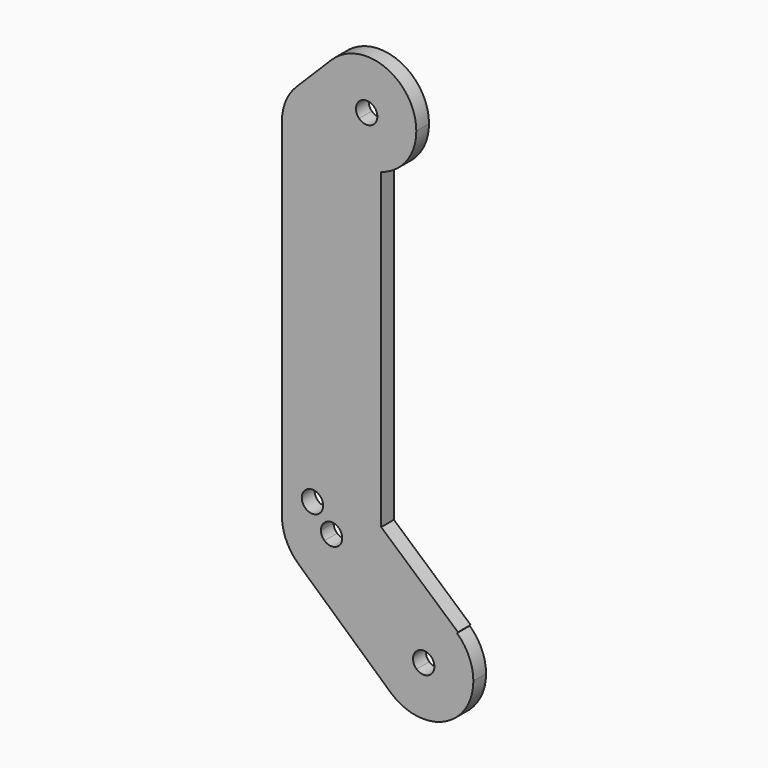
from build123d import *

# Parameters (mm, degrees)
F1_DEPTH = 3.2
F2_R     = 2.15
F3_DEPTH = 12.5


with BuildPart() as f1:
    # F0 (on Front) → F1 (new body)
    with BuildSketch(Plane.XZ):
        with BuildLine():
            Line((-18.5654132097, 100.885057482), (-25.6364810216, 93.8139896702))
            ThreePointArc((-25.6364810216, 93.8139896702), (-23.5654132097, 95.4031758961), (-21.1536036607, 96.4021801212))
            ThreePointArc((-21.1536036607, 96.4021801212), (-20.1545994357, 98.8139896702), (-18.5654132097, 100.885057482))
        make_face()
        with BuildLine():
            ThreePointArc((-6.6971687433, -7.4261652839), (-9.9867052636, -0.5154783973), (-7.4261652839, 6.6971687433))
            Line((-7.4261652839, 6.6971687433), (-11.1392479258, 10.045753115))
            ThreePointArc((-11.1392479258, 10.045753115), (-18.0499348124, 6.7562165947), (-25.262581953, 9.3167565744))
            Line((-25.262581953, 9.3167565744), (-6.6971687433, -7.4261652839))
        make_face()
        with BuildLine():
            Line((-28.5654132097, 86.7429218583), (-28.5654132097, 16.7429218583))
            ThreePointArc((-28.5654132097, 16.7429218583), (-25.6364810216, 23.8139896702), (-18.5654132097, 26.7429218583))
            Line((-18.5654132097, 26.7429218583), (-18.5654132097, 76.7429218583))
            ThreePointArc((-18.5654132097, 76.7429218583), (-25.6364810216, 79.6718540464), (-28.5654132097, 86.7429218583))
        make_face()
        with BuildLine():
            Line((-18.5654132097, 86.7429218583), (-28.5654132097, 86.7429218583))
            ThreePointArc((-28.5654132097, 86.7429218583), (-25.6364810216, 79.6718540464), (-18.5654132097, 76.7429218583))
            Line((-18.5654132097, 76.7429218583), (-18.5654132097, 86.7429218583))
        make_face()
        with BuildLine():
            ThreePointArc((-25.6364810216, 93.8139896702), (-27.8042085348, 90.5697561819), (-28.5654132097, 86.7429218583))
            Line((-28.5654132097, 86.7429218583), (-18.5654132097, 86.7429218583))
            ThreePointArc((-18.5654132097, 86.7429218583), (-21.1536036607, 91.2257992191), (-21.1536036607, 96.4021801212))
            ThreePointArc((-21.1536036607, 96.4021801212), (-23.5654132097, 95.4031758961), (-25.6364810216, 93.8139896702))
        make_face()
        with BuildLine():
            ThreePointArc((-8.9061549468, 84.1547314073), (-8.7353506369, 84.2021247154), (-8.5654132097, 84.2525380943))
            Line((-8.5654132097, 84.2525380943), (-8.5654132097, 86.7429218583))
            ThreePointArc((-8.5654132097, 86.7429218583), (-8.650964596, 85.4376599361), (-8.9061549468, 84.1547314073))
        make_face()
        with BuildLine():
            ThreePointArc((-11.8682444664, 24.1690871422), (-9.4283543987, 20.8066832051), (-8.5654132097, 16.7429218583))
            Line((-8.5654132097, 16.7429218583), (-8.5654132097, 21.2613671129))
            Line((-8.5654132097, 21.2613671129), (-11.8682444664, 24.1690871422))
        make_face()
        with BuildLine():
            ThreePointArc((-28.5654132097, 16.7429218583), (-27.7024720208, 12.6791605115), (-25.262581953, 9.3167565744))
            Line((-25.262581953, 9.3167565744), (-20.0053044895, 15.1462963223))
            ThreePointArc((-20.0053044895, 15.1462963223), (-20.5298808541, 15.8692131687), (-20.7154132097, 16.7429218583))
            Line((-20.7154132097, 16.7429218583), (-28.5654132097, 16.7429218583))
        make_face()
        with BuildLine():
            Line((6.6971687433, 7.4261652839), (1.4398912798, 1.596625536))
            ThreePointArc((1.4398912798, 1.596625536), (1.9644676444, 0.8737086896), (2.15, 0))
            ThreePointArc((2.15, 0), (0.8737086896, -1.9644676444), (-1.4398912798, -1.596625536))
            Line((-1.4398912798, -1.596625536), (-6.6971687433, -7.4261652839))
            ThreePointArc((-6.6971687433, -7.4261652839), (4.0637613468, -9.1370588111), (10, 0))
            ThreePointArc((10, 0), (9.1370588111, 4.0637613468), (6.6971687433, 7.4261652839))
        make_face()
        with BuildLine():
            Line((-7.4261652839, 6.6971687433), (-1.596625536, 1.4398912798))
            ThreePointArc((-1.596625536, 1.4398912798), (-0.1108278554, 2.1471416317), (1.4398912798, 1.596625536))
            Line((1.4398912798, 1.596625536), (6.6971687433, 7.4261652839))
            ThreePointArc((6.6971687433, 7.4261652839), (-0.5154783973, 9.9867052636), (-7.4261652839, 6.6971687433))
        make_face()
        with BuildLine():
            ThreePointArc((-1.4398912798, -1.596625536), (-2.1471416317, -0.1108278554), (-1.596625536, 1.4398912798))
            Line((-1.596625536, 1.4398912798), (-7.4261652839, 6.6971687433))
            ThreePointArc((-7.4261652839, 6.6971687433), (-9.9867052636, -0.5154783973), (-6.6971687433, -7.4261652839))
            Line((-6.6971687433, -7.4261652839), (-1.4398912798, -1.596625536))
        make_face()
        with BuildLine():
            Line((-11.1392479258, 10.045753115), (-7.4261652839, 6.6971687433))
            ThreePointArc((-7.4261652839, 6.6971687433), (-0.5154783973, 9.9867052636), (6.6971687433, 7.4261652839))
            Line((6.6971687433, 7.4261652839), (6.8974743638, 7.6482744619))
            Line((6.8974743638, 7.6482744619), (-8.5654132097, 21.2613671129))
            Line((-8.5654132097, 21.2613671129), (-8.5654132097, 16.7429218583))
            ThreePointArc((-8.5654132097, 16.7429218583), (-9.2310237589, 13.1555588183), (-11.1392479258, 10.045753115))
        make_face()
        with BuildLine():
            ThreePointArc((-25.262581953, 9.3167565744), (-18.0499348124, 6.7562165947), (-11.1392479258, 10.045753115))
            Line((-11.1392479258, 10.045753115), (-16.9687876737, 15.3030305785))
            ThreePointArc((-16.9687876737, 15.3030305785), (-18.4545853543, 14.5957802266), (-20.0053044895, 15.1462963223))
            Line((-20.0053044895, 15.1462963223), (-25.262581953, 9.3167565744))
        make_face()
        with BuildLine():
            ThreePointArc((-18.5654132097, 26.7429218583), (-25.6364810216, 23.8139896702), (-28.5654132097, 16.7429218583))
            Line((-28.5654132097, 16.7429218583), (-20.7154132097, 16.7429218583))
            ThreePointArc((-20.7154132097, 16.7429218583), (-20.0856927893, 18.2632014378), (-18.5654132097, 18.8929218583))
            Line((-18.5654132097, 18.8929218583), (-18.5654132097, 26.7429218583))
        make_face()
        with BuildLine():
            Line((-8.5654132097, 86.7429218583), (-8.5654132097, 84.2525380943))
            ThreePointArc((-8.5654132097, 84.2525380943), (-3.4541550431, 87.8679540951), (-1.4943453978, 93.8139896702))
            ThreePointArc((-1.4943453978, 93.8139896702), (-7.6675110742, 103.0527849953), (-18.5654132097, 100.885057482))
            ThreePointArc((-18.5654132097, 100.885057482), (-20.1545994357, 98.8139896702), (-21.1536036607, 96.4021801212))
            ThreePointArc((-21.1536036607, 96.4021801212), (-17.030591367, 96.624436009), (-13.1692451405, 95.1620293032))
            ThreePointArc((-13.1692451405, 95.1620293032), (-10.7796896928, 95.8417389701), (-9.3443453978, 93.8139896702))
            ThreePointArc((-9.3443453978, 93.8139896702), (-9.5551722221, 92.8854922849), (-10.1463057648, 92.1390899275))
            ThreePointArc((-10.1463057648, 92.1390899275), (-8.9687712332, 89.5544095029), (-8.5654132097, 86.7429218583))
        make_face()
        with BuildLine():
            Line((-11.8682444664, 24.1690871422), (-8.5654132097, 21.2613671129))
            Line((-8.5654132097, 21.2613671129), (-8.5654132097, 84.2525380943))
            ThreePointArc((-8.5654132097, 84.2525380943), (-8.7353506369, 84.2021247154), (-8.9061549468, 84.1547314073))
            ThreePointArc((-8.9061549468, 84.1547314073), (-12.4777989196, 78.8093884554), (-18.5654132097, 76.7429218583))
            Line((-18.5654132097, 76.7429218583), (-18.5654132097, 26.7429218583))
            ThreePointArc((-18.5654132097, 26.7429218583), (-14.9780501697, 26.0773113091), (-11.8682444664, 24.1690871422))
        make_face()
        with BuildLine():
            Line((-17.1255219299, 18.3395473943), (-11.8682444664, 24.1690871422))
            ThreePointArc((-11.8682444664, 24.1690871422), (-14.9780501697, 26.0773113091), (-18.5654132097, 26.7429218583))
            Line((-18.5654132097, 26.7429218583), (-18.5654132097, 18.8929218583))
            ThreePointArc((-18.5654132097, 18.8929218583), (-17.7941301561, 18.7498155902), (-17.1255219299, 18.3395473943))
        make_face()
        with BuildLine():
            Line((-16.4154132097, 16.7429218583), (-8.5654132097, 16.7429218583))
            ThreePointArc((-8.5654132097, 16.7429218583), (-9.4283543987, 20.8066832051), (-11.8682444664, 24.1690871422))
            Line((-11.8682444664, 24.1690871422), (-17.1255219299, 18.3395473943))
            ThreePointArc((-17.1255219299, 18.3395473943), (-16.6009455653, 17.6166305478), (-16.4154132097, 16.7429218583))
        make_face()
        with BuildLine():
            Line((-16.9687876737, 15.3030305785), (-11.1392479258, 10.045753115))
            ThreePointArc((-11.1392479258, 10.045753115), (-9.2310237589, 13.1555588183), (-8.5654132097, 16.7429218583))
            Line((-8.5654132097, 16.7429218583), (-16.4154132097, 16.7429218583))
            ThreePointArc((-16.4154132097, 16.7429218583), (-16.5585194778, 15.9716388047), (-16.9687876737, 15.3030305785))
        make_face()
        with BuildLine():
            ThreePointArc((-21.1536036607, 96.4021801212), (-21.1536036607, 91.2257992191), (-18.5654132097, 86.7429218583))
            Line((-18.5654132097, 86.7429218583), (-13.0146249774, 92.2937100906))
            ThreePointArc((-13.0146249774, 92.2937100906), (-13.6412283712, 93.6982593867), (-13.1692451405, 95.1620293032))
            ThreePointArc((-13.1692451405, 95.1620293032), (-17.030591367, 96.624436009), (-21.1536036607, 96.4021801212))
        make_face()
        with BuildLine():
            Line((-18.5654132097, 86.7429218583), (-8.5654132097, 86.7429218583))
            ThreePointArc((-8.5654132097, 86.7429218583), (-8.9687712332, 89.5544095029), (-10.1463057648, 92.1390899275))
            ThreePointArc((-10.1463057648, 92.1390899275), (-11.6100756813, 91.6671066968), (-13.0146249774, 92.2937100906))
            Line((-13.0146249774, 92.2937100906), (-18.5654132097, 86.7429218583))
        make_face()
        with BuildLine():
            ThreePointArc((-18.5654132097, 76.7429218583), (-12.4777989196, 78.8093884554), (-8.9061549468, 84.1547314073))
            ThreePointArc((-8.9061549468, 84.1547314073), (-14.0825358489, 84.1547314073), (-18.5654132097, 86.7429218583))
            Line((-18.5654132097, 86.7429218583), (-18.5654132097, 76.7429218583))
        make_face()
        with BuildLine():
            ThreePointArc((-8.9061549468, 84.1547314073), (-8.650964596, 85.4376599361), (-8.5654132097, 86.7429218583))
            Line((-8.5654132097, 86.7429218583), (-18.5654132097, 86.7429218583))
            ThreePointArc((-18.5654132097, 86.7429218583), (-14.0825358489, 84.1547314073), (-8.9061549468, 84.1547314073))
        make_face()
    extrude(amount=F1_DEPTH)

    # F2 (on Front) → F3 (cut, symmetric)
    with BuildSketch(Plane.XZ):
        with Locations((-22.4154132097, 21.2613671129)):
            Circle(F2_R)
    extrude(amount=F3_DEPTH, both=True, mode=Mode.SUBTRACT)


solid = f1.part
